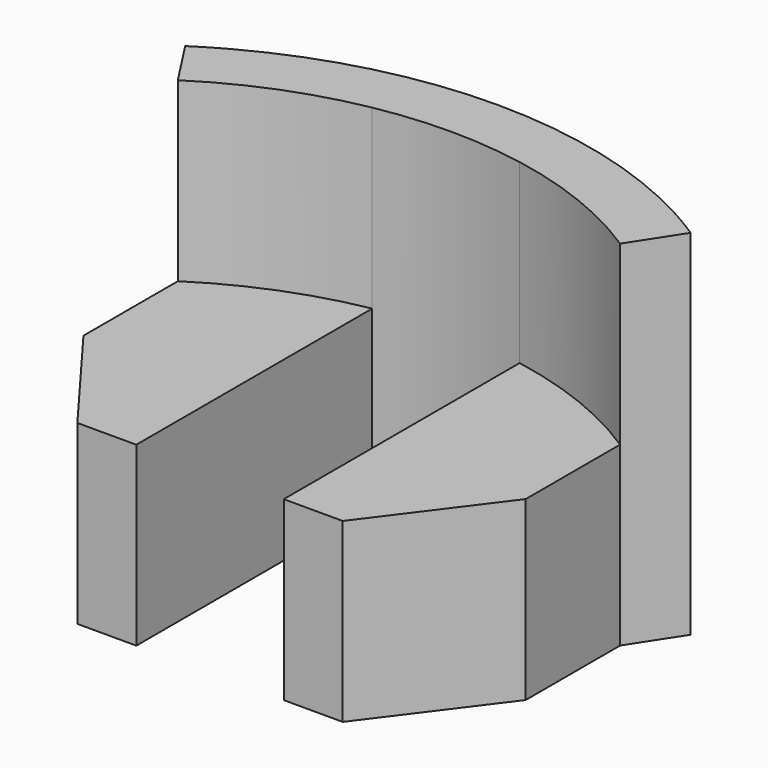
from build123d import *

# Parameters (mm, degrees)
F1_DEPTH = 7.62
F2_DEPTH = 15.24


with BuildPart() as f1:
    # F0 (on Top) → F1 (new body)
    with BuildSketch(Plane.XY):
        with BuildLine():
            ThreePointArc((-3.175, 17.209572), (-6.474661, 16.258191), (-9.525, 14.680749))
            Line((-9.525, 14.680749), (-9.525, 9.600749))
            Line((-9.525, 9.600749), (-5.715, 4.509572))
            Line((-5.715, 4.509572), (-3.175, 4.509572))
            Line((-3.175, 4.509572), (-3.175, 17.209572))
        make_face()
        with BuildLine():
            Line((9.525, 9.600749), (9.525, 14.680749))
            ThreePointArc((9.525, 14.680749), (6.474661, 16.258191), (3.175, 17.209572))
            Line((3.175, 17.209572), (3.175, 4.509572))
            Line((3.175, 4.509572), (5.715, 4.509572))
            Line((5.715, 4.509572), (9.525, 9.600749))
        make_face()
    extrude(amount=F1_DEPTH)


with BuildPart() as f2:
    # F0 (on Top) → F2 (new body)
    with BuildSketch(Plane.XY):
        with BuildLine():
            Line((-9.525, 17.209572), (-9.525, 14.680749))
            ThreePointArc((-9.525, 14.680749), (-6.474661, 16.258191), (-3.175, 17.209572))
            Line((-3.175, 17.209572), (-9.525, 17.209572))
        make_face()
        with BuildLine():
            ThreePointArc((-3.175, 17.209572), (0, 17.5), (3.175, 17.209572))
            Line((3.175, 17.209572), (9.525, 17.209572))
            Line((9.525, 17.209572), (9.525, 17.586198))
            ThreePointArc((9.525, 17.586198), (0, 20), (-9.525, 17.586198))
            Line((-9.525, 17.586198), (-9.525, 17.209572))
            Line((-9.525, 17.209572), (-3.175, 17.209572))
        make_face()
        with BuildLine():
            ThreePointArc((3.175, 17.209572), (6.474661, 16.258191), (9.525, 14.680749))
            Line((9.525, 14.680749), (9.525, 17.209572))
            Line((9.525, 17.209572), (3.175, 17.209572))
        make_face()
        with BuildLine():
            Line((-10.885714, 16.777998), (-9.525, 14.680749))
            Line((-9.525, 14.680749), (-9.525, 17.209572))
            Line((-9.525, 17.209572), (-9.525, 17.586198))
            ThreePointArc((-9.525, 17.586198), (-10.213355, 17.195563), (-10.885714, 16.777998))
        make_face()
        with BuildLine():
            Line((9.525, 17.209572), (9.525, 14.680749))
            Line((9.525, 14.680749), (10.885714, 16.777998))
            ThreePointArc((10.885714, 16.777998), (10.213355, 17.195563), (9.525, 17.586198))
            Line((9.525, 17.586198), (9.525, 17.209572))
        make_face()
    extrude(amount=F2_DEPTH)


solid = Compound([f1.part, f2.part])
